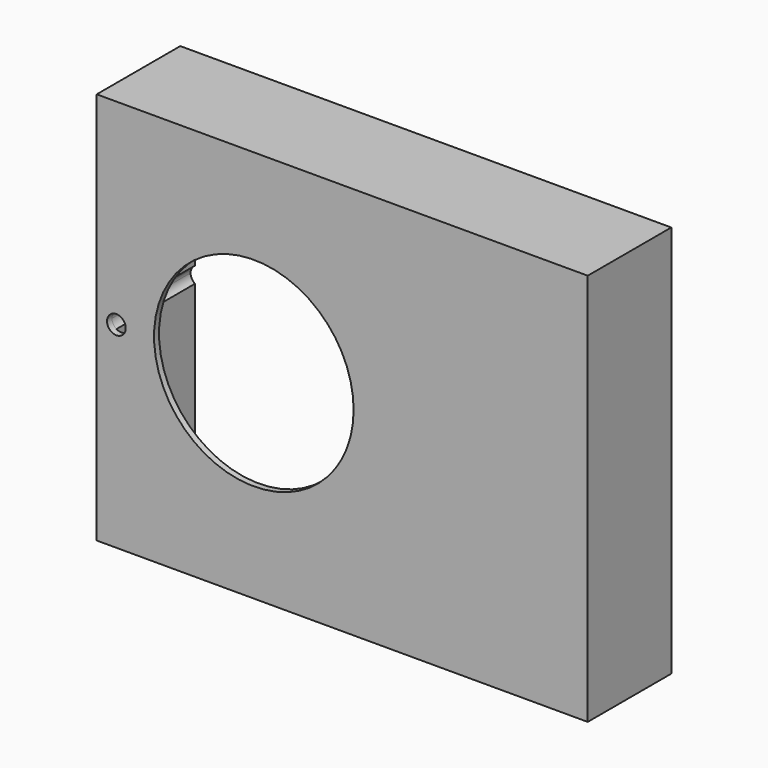
from build123d import *

# Parameters (mm, degrees)
F0_W     = 250
F0_H     = 200
F0_R     = 4.7625
F0_R_2   = 50.8
F1_DEPTH = 3.175
F2_W     = 250
F2_H     = 200
F3_DEPTH = 50


with BuildPart() as f1:
    # F0 (on Front) → F1 (new body)
    with BuildSketch(Plane.XZ):
        with Locations((-29.062672, -92.372447)):
            Rectangle(F0_W, F0_H)
        with Locations((-144.045696, -92.372447)):
            Circle(F0_R, mode=Mode.SUBTRACT)
        with Locations((-74.062672, -91.302834)):
            Circle(F0_R_2, mode=Mode.SUBTRACT)
    extrude(amount=F1_DEPTH)

    # F2 (on face) → F3 (join)
    with BuildSketch(Plane(origin=(0, 0, 0), x_dir=(-1, 0, 0), z_dir=(0, 1, 0))):
        with Locations((29.062672, -92.372447)):
            Rectangle(F2_W, F2_H)
        with BuildLine():
            Line((-81.998445, -181.328297), (-81.998445, -5.912347))
            Line((-81.998445, -5.912347), (146.541446, -5.912347))
            Line((146.541446, -5.912347), (146.541446, -88.316263))
            ThreePointArc((146.541446, -88.316263), (148.203064, -90.049153), (148.808196, -92.372447))
            ThreePointArc((148.808196, -92.372447), (148.203064, -94.695742), (146.541446, -96.428632))
            Line((146.541446, -96.428632), (146.541446, -181.328297))
            Line((146.541446, -181.328297), (-81.998445, -181.328297))
        make_face(mode=Mode.SUBTRACT)
    extrude(amount=F3_DEPTH)


solid = f1.part
